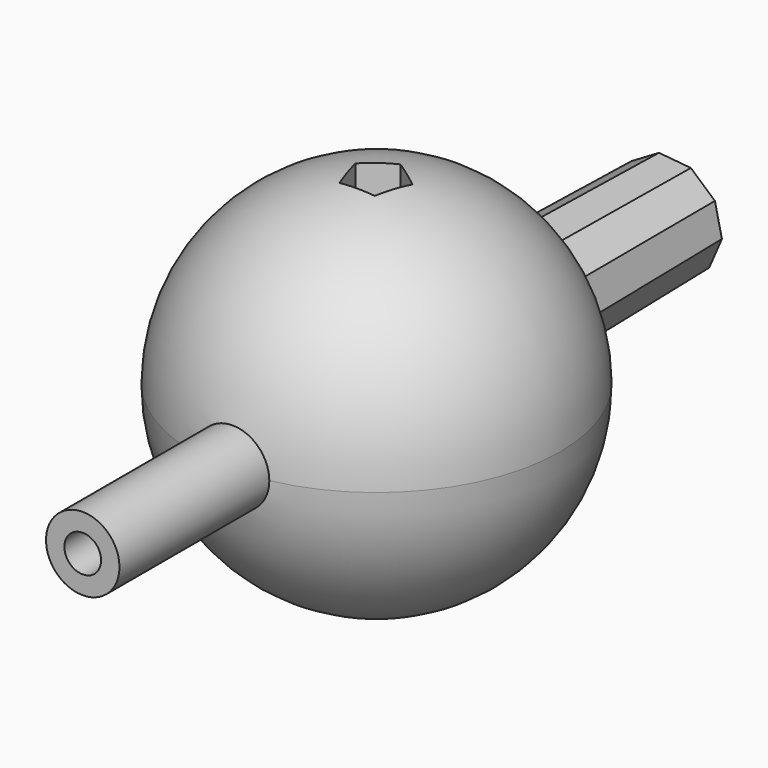
from build123d import *

# Parameters (mm, degrees)
F2_R     = 12.7
F3_DEPTH = 127
F4_R     = 6.35
F5_DEPTH = 127
F7_DEPTH = 127
F7_TAPER = 1
F9_DEPTH = 63.5


with BuildPart() as f1:
    # F0 (on Front) → F1 (revolve)
    with BuildSketch(Plane.XZ):
        with BuildLine():
            ThreePointArc((0, -63.5), (44.9012806053, -44.9012806053), (63.5, 0))
            ThreePointArc((63.5, 0), (44.9012806053, 44.9012806053), (0, 63.5))
            Line((0, 63.5), (0, -63.5))
        make_face()
    revolve(axis=Axis((0, 0, 0), (0, 0, -1)))

    # F2 (on Front) → F3 (join)
    with BuildSketch(Plane.XZ):
        Circle(F2_R)
    extrude(amount=F3_DEPTH)

    # F4 (on Front) → F5 (cut, symmetric)
    with BuildSketch(Plane.XZ):
        Circle(F4_R)
    extrude(amount=F5_DEPTH, both=True, mode=Mode.SUBTRACT)

    # F6 (on Front) → F7 (join)
    with BuildSketch(Plane.XZ):
        Polygon((-17.4312744727, -10.324512409), (-8.0336011509, -18.5985520613), (4.4326347585, -19.7685769676), (2.7486874728, -12.2585421145), (0.2662621749, -13.1211935126), (-7.4970334147, -10.7717735178), (-12.3967170547, -4.3079021583), (-12.5612761287, 3.8014414054), (-7.9278546636, 10.4587635585), (-2.7486874728, 12.2585421145), (-4.4326347585, 19.7685769676), (-15.2057548499, 13.3876773816), (-20.1707934132, 1.8931400662), align=None)
        Polygon((2.7486874728, -12.2585421145), (4.4326347585, -19.7685769676), (15.2057548499, -13.3876773816), (20.1707934132, -1.8931400662), (17.4312744727, 10.324512409), (8.0336011509, 18.5985520613), (-4.4326347585, 19.7685769676), (-2.7486874728, 12.2585421145), (-0.2662621749, 13.1211935126), (7.4970334147, 10.7717735178), (12.3967170547, 4.3079021583), (12.5612761287, -3.8014414054), (7.9278546636, -10.4587635585), align=None)
    extrude(amount=-F7_DEPTH, taper=F7_TAPER)

    # F8 (on Top) → F9 (cut, symmetric)
    with BuildSketch(Plane.XY):
        Polygon((-6.0909675368, -8.3834975958), (6.0909675368, -8.3834975958), (9.8553924989, 3.202211137), (0, 10.3625729176), (-9.8553924989, 3.202211137), align=None)
    extrude(amount=F9_DEPTH, both=True, mode=Mode.SUBTRACT)


solid = f1.part
